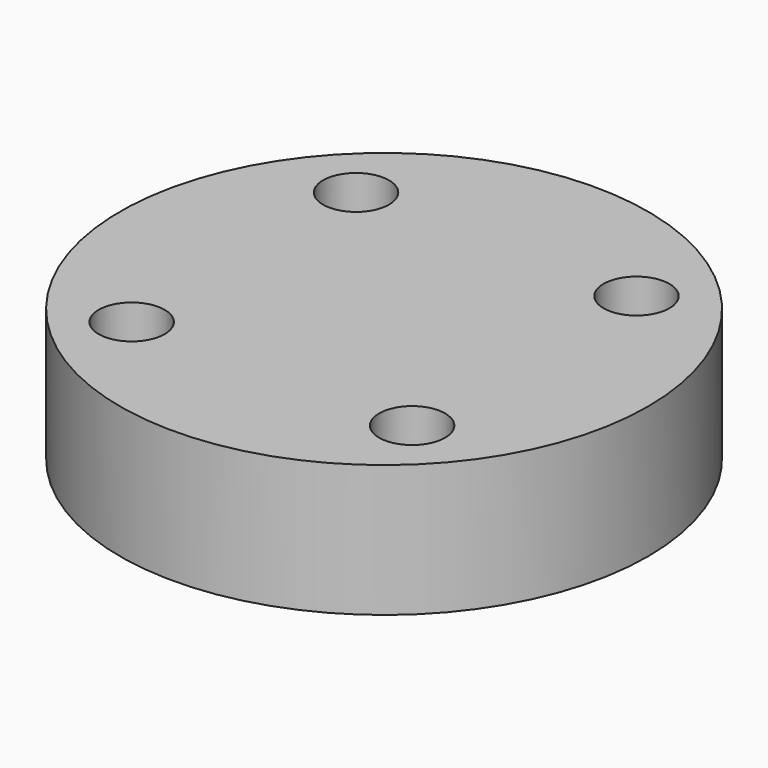
from build123d import *

# Parameters (mm, degrees)
CYLINDER1143_R     = 1
CYLINDER1143_DEPTH = 20
CYLINDER1148_R     = 1
CYLINDER1148_DEPTH = 20
CYLINDER1138_R     = 1
CYLINDER1138_DEPTH = 20
CYLINDER1150_R     = 1
CYLINDER1150_DEPTH = 20
CYLINDER1135_R     = 8
CYLINDER1135_DEPTH = 4


with BuildPart() as obj1:
    # Cylinder1143 → Cylinder1143 (new body)
    with BuildSketch(Plane(origin=(4.25, -4.25, -88), x_dir=(0, 1, 0), z_dir=(0, 0, 1))):
        Circle(CYLINDER1143_R)
    extrude(amount=CYLINDER1143_DEPTH)


with BuildPart() as obj2:
    # Cylinder1148 → Cylinder1148 (new body)
    with BuildSketch(Plane(origin=(4.25, 4.25, -88), x_dir=(-1, 0, 0), z_dir=(0, 0, 1))):
        Circle(CYLINDER1148_R)
    extrude(amount=CYLINDER1148_DEPTH)


with BuildPart() as obj3:
    # Cylinder1138 → Cylinder1138 (new body)
    with BuildSketch(Plane(origin=(-4.25, 4.25, -88), x_dir=(0, -1, 0), z_dir=(0, 0, 1))):
        Circle(CYLINDER1138_R)
    extrude(amount=CYLINDER1138_DEPTH)


with BuildPart() as compound881:
    # Cylinder1150 → Cylinder1150 (new body)
    with BuildSketch(Plane(origin=(-4.25, -4.25, -88), x_dir=(1, 0, 0), z_dir=(0, 0, 1))):
        Circle(CYLINDER1150_R)
    extrude(amount=CYLINDER1150_DEPTH)

    # Compound881: union obj1, obj2, obj3
    add(obj1.part)
    add(obj2.part)
    add(obj3.part)


with BuildPart() as compound881_1:
    # Compound881 placement: moved
    add(compound881.part.moved(Location((0, 0, 91))))


with BuildPart() as cut429:
    # Cylinder1135 → Cylinder1135 (new body)
    with BuildSketch(Plane.XY.offset(15)):
        Circle(CYLINDER1135_R)
    extrude(amount=CYLINDER1135_DEPTH)

    # Cut429: cut Compound881
    add(compound881_1.part, mode=Mode.SUBTRACT)


solid = cut429.part
